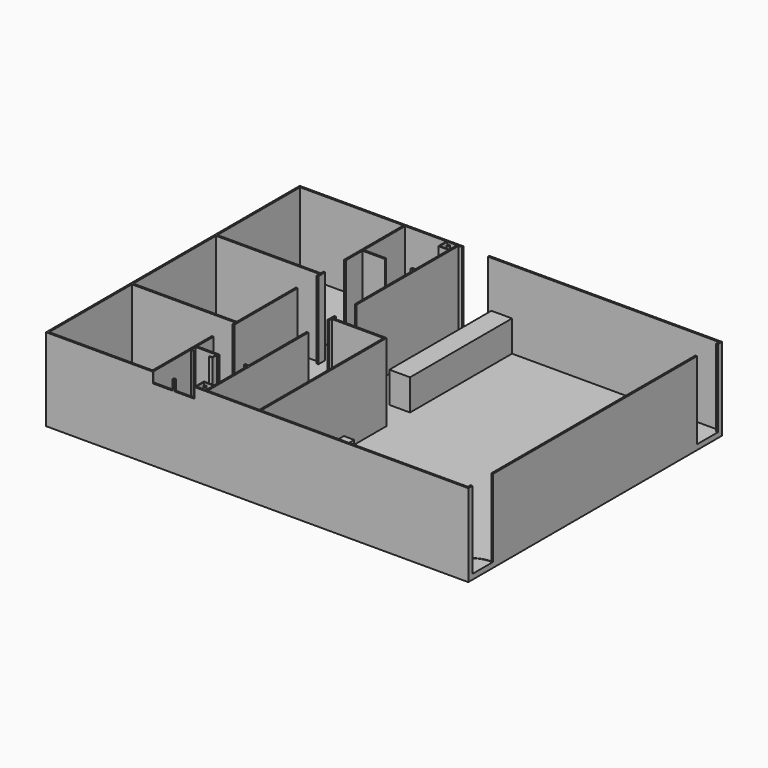
from build123d import *

# Parameters (mm, degrees)
F0_W      = 103.716582
F0_H      = 77.893418
F1_DEPTH  = 20.32
F2_W      = 12.7
F2_H      = 38.1
F2_H_2    = 12.7
F2_W_2    = 25.4
F2_H_3    = 25.4
F3_DEPTH  = 19.05
F2_W_3    = 5.08
F2_H_4    = 31.326752
F4_DEPTH  = 11.43
F5_W      = 10.773575
F5_H      = 6.35
F5_W_2    = 8.471926
F5_W_3    = 9.933154
F5_W_4    = 8.013751
F5_W_5    = 6.35
F5_H_2    = 5.976636
F5_H_3    = 7.069521
F5_W_6    = 14.533311
F5_W_7    = 17.092332
F6_DEPTH  = 25.4
F8_DEPTH  = 0.254
F9_W      = 7.62
F9_H      = 2.54
F9_W_2    = 2.54
F9_H_2    = 25.4
F10_DEPTH = 3.175
F11_DEPTH = 19.05
F12_R     = 0.3175
F13_DEPTH = 25.4
F14_W     = 2.328334
F14_H     = 2.328334
F14_R     = 0.3175
F15_DEPTH = 19.05
F17_DEPTH = 19.05
F18_W     = 3.81
F18_H     = 1.71935
F19_DEPTH = 25.4
F21_DEPTH = 0.254
F23_DEPTH = 0.254
F24_W     = 6.35
F24_H     = 6.396148
F25_DEPTH = 25.4
F27_DEPTH = 0.254
F28_W     = 4.868333
F28_H     = 2.433457
F28_W_2   = 4.868334
F28_H_2   = 2.70528
F29_DEPTH = 2.54
F30_R     = 0.3175
F31_DEPTH = 19.05


with BuildPart() as f1:
    # F0 (on Top) → F1 (new body)
    with BuildSketch(Plane.XY):
        Rectangle(F0_W, F0_H)
    extrude(amount=F1_DEPTH)

    # F2 (on face) → F3 (cut)
    with BuildSketch(Plane.XY.offset(20.32)):
        Polygon((-25.611624, 25.400042), (-25.611624, -25.400042), (-12.911624, -25.400042), (-12.911624, -4.2e-05), (-12.911624, 0.846624), (-12.488291, 0.846624), (-12.488291, -4.2e-05), (0.635042, -4.2e-05), (0.635042, -38.523376), (51.434958, -38.523376), (51.434958, 38.523376), (0.635042, 38.523376), (0.635042, 7.196624), (-4.444958, 7.196624), (-4.444958, 38.523376), (-12.488291, 38.523376), (-12.488291, 7.196624), (-12.911624, 7.196624), (-12.911624, 25.400042), align=None)
        with Locations((-6.138291, -19.473376)):
            Rectangle(F2_W, F2_H)
        with Locations((-19.261624, 32.173376)):
            Rectangle(F2_W, F2_H_2)
        with Locations((-38.734958, 25.823376)):
            Rectangle(F2_W_2, F2_H_3)
        with Locations((-38.734958, 4.2e-05)):
            Rectangle(F2_W_2, F2_H_3)
        with Locations((-38.734958, -25.823291)):
            Rectangle(F2_W_2, F2_H_3)
        with Locations((-19.261624, -32.173376)):
            Rectangle(F2_W, F2_H_2)
    extrude(amount=-F3_DEPTH, mode=Mode.SUBTRACT)

    # F2 (on face) → F4 (cut)
    with BuildSketch(Plane.XY.offset(20.32)):
        with Locations((-1.904958, 22.86)):
            Rectangle(F2_W_3, F2_H_4)
    extrude(amount=-F4_DEPTH, mode=Mode.SUBTRACT)

    # F5 (on face) → F6 (cut)
    with BuildSketch(Plane.XY.offset(1.27)):
        with Locations((-8.94876, -4.445042)):
            Rectangle(F5_W, F5_H)
        with Locations((-28.677121, -17.144958)):
            Rectangle(F5_W_2, F5_H)
        with Locations((-28.249786, 17.145042)):
            Rectangle(F5_W_3, F5_H)
        with Locations((-29.618499, 8.678376)):
            Rectangle(F5_W_4, F5_H)
        with Locations((-16.933206, 25.272815)):
            Rectangle(F5_W_5, F5_H_2)
        with Locations((-16.933291, -25.868037)):
            Rectangle(F5_W_5, F5_H_3)
        with Locations((48.739075, 34.501709)):
            Rectangle(F5_W_6, F5_H)
        with Locations((51.322244, -34.501709)):
            Rectangle(F5_W_7, F5_H)
    extrude(amount=F6_DEPTH, mode=Mode.SUBTRACT)

    # F7 (on face) → F8 (cut)
    with BuildSketch(Plane.XY.offset(1.27)):
        with BuildLine():
            ThreePointArc((-13.758291, -19.050042), (-18.248419, -20.909914), (-20.108291, -25.400042))
            Line((-20.108291, -25.400042), (-19.981291, -25.400042))
            ThreePointArc((-19.981291, -25.400042), (-18.158616, -20.999717), (-13.758291, -19.177042))
            Line((-13.758291, -19.177042), (-13.758291, -19.050042))
        make_face()
        with BuildLine():
            ThreePointArc((-32.384958, -13.969958), (-30.525086, -18.460086), (-26.034958, -20.319958))
            Line((-26.034958, -20.319958), (-26.034958, -20.192958))
            ThreePointArc((-26.034958, -20.192958), (-30.435283, -18.370283), (-32.257958, -13.969958))
            Line((-32.257958, -13.969958), (-32.384958, -13.969958))
        make_face()
        with BuildLine():
            Line((-12.488291, -7.493042), (-12.488291, -7.620042))
            ThreePointArc((-12.488291, -7.620042), (-7.998163, -5.76017), (-6.138291, -1.270042))
            Line((-6.138291, -1.270042), (-6.265291, -1.270042))
            ThreePointArc((-6.265291, -1.270042), (-8.087966, -5.670368), (-12.488291, -7.493042))
        make_face()
        with BuildLine():
            ThreePointArc((-32.384958, 11.853376), (-30.525086, 7.363248), (-26.034958, 5.503376))
            Line((-26.034958, 5.503376), (-26.034958, 5.630376))
            ThreePointArc((-26.034958, 5.630376), (-30.435283, 7.45305), (-32.257958, 11.853376))
            Line((-32.257958, 11.853376), (-32.384958, 11.853376))
        make_face()
        with BuildLine():
            Line((-26.034958, 20.193042), (-26.034958, 20.320042))
            ThreePointArc((-26.034958, 20.320042), (-30.525086, 18.46017), (-32.384958, 13.970042))
            Line((-32.384958, 13.970042), (-32.257958, 13.970042))
            ThreePointArc((-32.257958, 13.970042), (-30.435283, 18.370368), (-26.034958, 20.193042))
        make_face()
        with BuildLine():
            Line((-19.981206, 25.400042), (-20.108206, 25.400042))
            ThreePointArc((-20.108206, 25.400042), (-18.248334, 20.909914), (-13.758206, 19.050042))
            Line((-13.758206, 19.050042), (-13.758206, 19.177042))
            ThreePointArc((-13.758206, 19.177042), (-18.158532, 20.999717), (-19.981206, 25.400042))
        make_face()
        with BuildLine():
            ThreePointArc((-19.261624, 7.196624), (-17.401752, 2.706496), (-12.911624, 0.846624))
            Line((-12.911624, 0.846624), (-12.911624, 0.973624))
            ThreePointArc((-12.911624, 0.973624), (-17.31195, 2.796299), (-19.134624, 7.196624))
            Line((-19.134624, 7.196624), (-19.261624, 7.196624))
        make_face()
    extrude(amount=-F8_DEPTH, mode=Mode.SUBTRACT)

    # F9 (on face) → F10 (join)
    with BuildSketch(Plane.XY.offset(1.27)):
        with Locations((-19.261624, -37.253376)):
            Rectangle(F9_W, F9_H)
        with Locations((1.905042, -25.823376)):
            Rectangle(F9_W_2, F9_H_2)
    extrude(amount=F10_DEPTH)

    # F9 (on face) → F11 (join)
    with BuildSketch(Plane.XY.offset(1.27)):
        with Locations((-14.181624, -37.253376)):
            Rectangle(F9_W_2, F9_H)
    extrude(amount=F11_DEPTH)

    # F12 (on face) → F13 (cut)
    with BuildSketch(Plane.XY.offset(1.27)):
        with Locations((-24.341624, -37.253376)):
            Circle(F12_R)
    extrude(amount=-F13_DEPTH, mode=Mode.SUBTRACT)

    # F14 (on face) → F15 (cut)
    with BuildSketch(Plane.XY.offset(20.32)):
        with Locations((-14.075791, -37.359209)):
            Rectangle(F14_W, F14_H)
        with Locations((-14.075791, -37.359209)):
            Circle(F14_R, mode=Mode.SUBTRACT)
    extrude(amount=-F15_DEPTH, mode=Mode.SUBTRACT)

    # F16 (on face) → F17 (join)
    with BuildSketch(Plane.XY.offset(1.27)):
        Polygon((-20.319958, -27.305042), (-20.319958, -25.823376), (-20.531624, -25.823376), (-20.531624, -27.093376), (-25.611624, -27.093376), (-25.611624, -27.305042), align=None)
    extrude(amount=F17_DEPTH)

    # F18 (on face) → F19 (cut)
    with BuildSketch(Plane.XY.offset(1.27)):
        with Locations((-23.071624, -27.192084)):
            Rectangle(F18_W, F18_H)
    extrude(amount=F19_DEPTH, mode=Mode.SUBTRACT)

    # F20 (on face) → F21 (cut)
    with BuildSketch(Plane.XY.offset(1.27)):
        with BuildLine():
            Line((-22.942084, -27.305042), (-23.069084, -27.305042))
            ThreePointArc((-23.069084, -27.305042), (-22.511867, -28.650285), (-21.166624, -29.207502))
            Line((-21.166624, -29.207502), (-21.166624, -29.080502))
            ThreePointArc((-21.166624, -29.080502), (-22.422064, -28.560482), (-22.942084, -27.305042))
        make_face()
        with BuildLine():
            ThreePointArc((-24.976624, -29.207502), (-23.631382, -28.650285), (-23.074164, -27.305042))
            Line((-23.074164, -27.305042), (-23.201164, -27.305042))
            ThreePointArc((-23.201164, -27.305042), (-23.721185, -28.560482), (-24.976624, -29.080502))
            Line((-24.976624, -29.080502), (-24.976624, -29.207502))
        make_face()
    extrude(amount=-F21_DEPTH, mode=Mode.SUBTRACT)

    # F22 (on face) → F23 (cut)
    with BuildSketch(Plane.XY.offset(1.27)):
        with BuildLine():
            Line((51.434958, -31.453709), (51.434958, -31.326709))
            ThreePointArc((51.434958, -31.326709), (46.94483, -33.186581), (45.084958, -37.676709))
            Line((45.084958, -37.676709), (45.211958, -37.676709))
            ThreePointArc((45.211958, -37.676709), (47.034632, -33.276384), (51.434958, -31.453709))
        make_face()
        with BuildLine():
            ThreePointArc((45.084958, 37.676709), (46.94483, 33.186581), (51.434958, 31.326709))
            Line((51.434958, 31.326709), (51.434958, 31.453709))
            ThreePointArc((51.434958, 31.453709), (47.034632, 33.276384), (45.211958, 37.676709))
            Line((45.211958, 37.676709), (45.084958, 37.676709))
        make_face()
    extrude(amount=-F23_DEPTH, mode=Mode.SUBTRACT)

    # F24 (on face) → F25 (cut)
    with BuildSketch(Plane.XY.offset(1.27)):
        with Locations((-8.466624, 37.683895)):
            Rectangle(F24_W, F24_H)
    extrude(amount=F25_DEPTH, mode=Mode.SUBTRACT)

    # F26 (on face) → F27 (cut)
    with BuildSketch(Plane.XY.offset(1.27)):
        with BuildLine():
            ThreePointArc((-11.641624, 32.173376), (-7.151496, 34.033248), (-5.291624, 38.523376))
            Line((-5.291624, 38.523376), (-5.418624, 38.523376))
            ThreePointArc((-5.418624, 38.523376), (-7.241299, 34.12305), (-11.641624, 32.300376))
            Line((-11.641624, 32.300376), (-11.641624, 32.173376))
        make_face()
    extrude(amount=-F27_DEPTH, mode=Mode.SUBTRACT)

    # F28 (on face) → F29 (cut)
    with BuildSketch(Plane.XY.offset(20.32)):
        with Locations((-23.177457, -38.934923)):
            Rectangle(F28_W, F28_H)
        with Locations((-17.885791, -39.187329)):
            Rectangle(F28_W_2, F28_H_2)
    extrude(amount=-F29_DEPTH, mode=Mode.SUBTRACT)

    # F30 (on face) → F31 (join)
    with BuildSketch(Plane.XY.offset(1.27)):
        with Locations((-14.075791, 37.359209)):
            Circle(F30_R)
        Polygon((-15.239958, 36.195042), (-15.239958, 38.523376), (-15.451624, 38.523376), (-15.451624, 35.983376), (-12.911624, 35.983376), (-12.911624, 36.195042), align=None)
    extrude(amount=F31_DEPTH)


solid = f1.part
